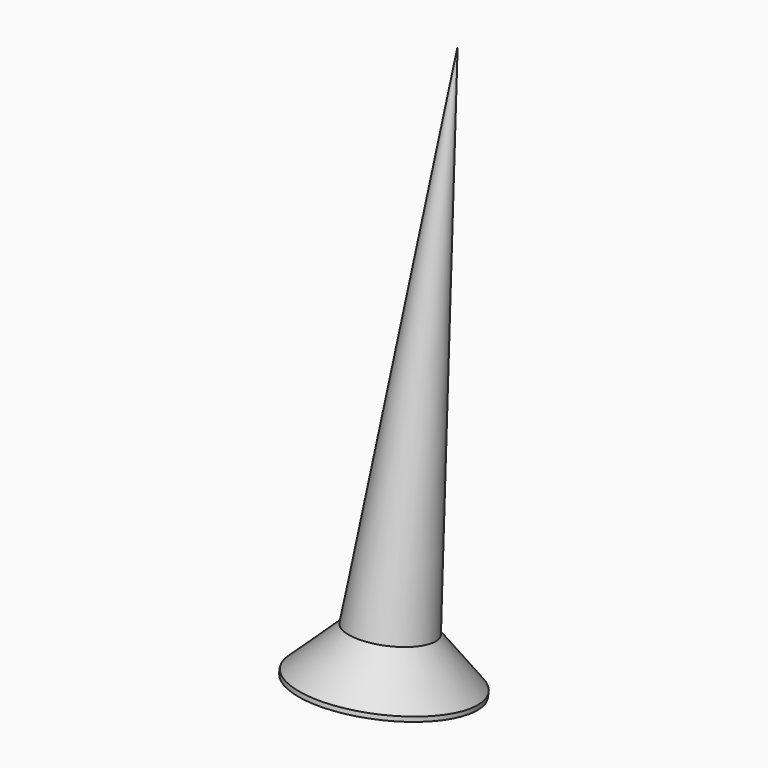
from build123d import *

# Parameters (mm, degrees)
POCKET006_DEPTH         = 0.2
POLARPATTERN003_COUNT   = 2
POLARPATTERN003_ANGLE   = 90
BODY009_ROLL_ANGLE      = -170
BODY009_PLACEMENT_ANGLE = 180


with BuildPart() as part:
    # Sketch026 → Revolution003 (revolve)
    with BuildSketch(Plane.XZ):
        Polygon((0, 0), (0, -12), (0.9, -1.05), (1.85, -0.1), (1.85, 0), align=None)
    revolve(axis=Axis((0, 0, 0), (0, 0, 1)))

    # Sketch027 → Pocket006 (cut, symmetric)
    with BuildSketch(Plane.XZ):
        Polygon((-1.15, 0), (0, -1.15), (1.15, 0), align=None)
    pocket006 = extrude(amount=POCKET006_DEPTH, both=True, mode=Mode.SUBTRACT)

    # PolarPattern003: Pocket006 ×2 about axis
    polarpattern003_axis = Axis((0, 0, 0), (0, 0, 1))
    for i in range(1, POLARPATTERN003_COUNT):
        add(pocket006.rotate(polarpattern003_axis, i * POLARPATTERN003_ANGLE / (POLARPATTERN003_COUNT - 1)), mode=Mode.SUBTRACT)


with BuildPart() as part_1:
    # Body009 roll: moved
    add(part.part.rotate(Axis((0, 0, 0), (1, 0, 0)), BODY009_ROLL_ANGLE))


with BuildPart() as part_2:
    # Body009 placement: moved
    add(part_1.part.moved(Location((-20.5, 7.5, 1))).rotate(Axis((-20.5, 7.5, 1), (0, 0, 1)), BODY009_PLACEMENT_ANGLE))


solid = part_2.part
